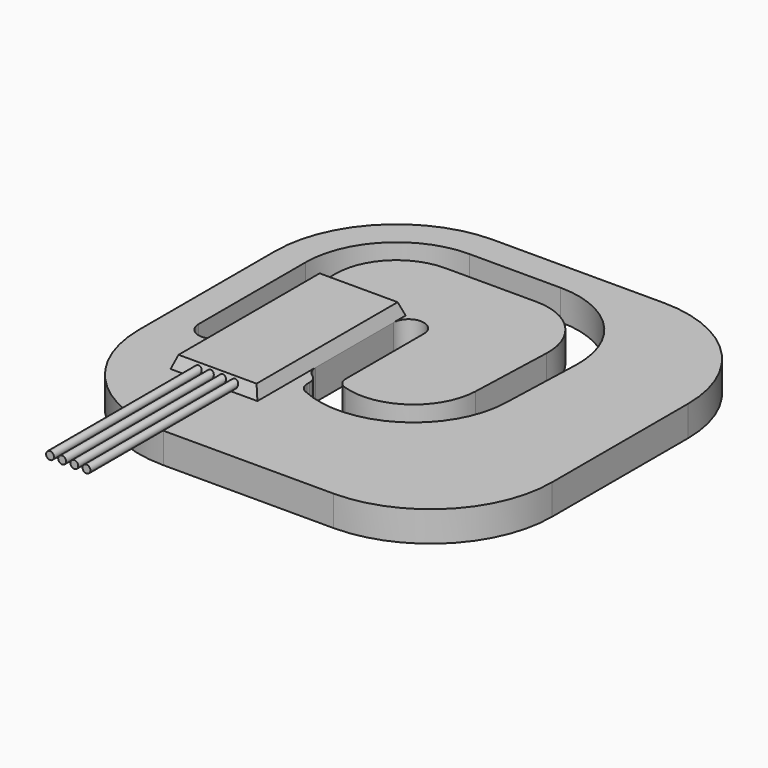
from build123d import *

# Parameters (mm, degrees)
F1_DEPTH = 2.5
F3_DEPTH = 1
F3_TAPER = 20
F4_R     = 0.325
F5_DEPTH = 25
F6_R     = 2.15
F7_DEPTH = 1.3
F7_TAPER = 45


with BuildPart() as f1:
    # F0 (on Top) → F1 (new body)
    with BuildSketch(Plane.XY):
        with BuildLine():
            Line((-7, -17), (7, -17))
            ThreePointArc((7, -17), (14.0710678119, -14.0710678119), (17, -7))
            Line((17, -7), (17, 7))
            ThreePointArc((17, 7), (14.0710678119, 14.0710678119), (7, 17))
            Line((7, 17), (-7, 17))
            ThreePointArc((-7, 17), (-14.0710678119, 14.0710678119), (-17, 7))
            Line((-17, 7), (-17, -7))
            ThreePointArc((-17, -7), (-14.0710678119, -14.0710678119), (-7, -17))
        make_face()
        with BuildLine():
            Line((-7, 14.5), (0.5045687974, 14.5))
            ThreePointArc((0.5045687974, 14.5), (5.8996172999, 12.2099377784), (8, 6.7382537747))
            Line((8, 6.7382537747), (7.7552377898, -0.2708188712))
            ThreePointArc((7.7552377898, -0.2708188712), (4.0582864832, -6.6141792278), (-3.271599819, -7.0365965254))
            ThreePointArc((-3.271599819, -7.0365965254), (-3.6930895027, -6.6675877975), (-3.85, -6.129814527))
            Line((-3.85, -6.129814527), (-3.85, -5.8708286934))
            ThreePointArc((-3.85, -5.8708286934), (-3.9680828963, -5.3994241726), (-4.2944444444, -5.0393492741))
            ThreePointArc((-4.2944444444, -5.0393492741), (-4.7023963796, -4.589255651), (-4.85, -4))
            Line((-4.85, -4), (-4.85, 4))
            ThreePointArc((-4.85, 4), (-3.6, 5.25), (-2.35, 4))
            Line((-2.35, 4), (-2.35, -4.0403961912))
            ThreePointArc((-2.35, -4.0403961912), (-2.1614505579, -4.6248172655), (-1.6669040158, -4.9888538048))
            ThreePointArc((-1.6669040158, -4.9888538048), (2.9990757899, -4.3212007232), (5.2567607222, -0.1835701295))
            Line((5.2567607222, -0.1835701295), (5.5015229325, 6.8255025165))
            ThreePointArc((5.5015229325, 6.8255025165), (4.1012677991, 10.4732918523), (0.5045687974, 12))
            Line((0.5045687974, 12), (-7, 12))
            ThreePointArc((-7, 12), (-10.5355339059, 10.5355339059), (-12, 7))
            Line((-12, 7), (-12, -4))
            ThreePointArc((-12, -4), (-13.25, -5.25), (-14.5, -4))
            Line((-14.5, -4), (-14.5, 7))
            ThreePointArc((-14.5, 7), (-12.3033008589, 12.3033008589), (-7, 14.5))
        make_face(mode=Mode.SUBTRACT)
    extrude(amount=F1_DEPTH)

    # F6 (on face) → F7 (join)
    with BuildSketch(Plane(origin=(0, 0, 0), x_dir=(1, 0, 0), z_dir=(0, 0, -1))):
        Circle(F6_R)
    extrude(amount=F7_DEPTH, taper=F7_TAPER)


with BuildPart() as f3:
    # F2 (on face) → F3 (new body)
    with BuildSketch(Plane.XY.offset(2.5)):
        Polygon((-12, 5.25), (-12, -4), (-12, -10), (-4.85, -10), (-4.85, -4), (-4.85, 4), (-4.85, 5.25), align=None)
    extrude(amount=F3_DEPTH, taper=F3_TAPER)

    # F4 (on Front) → F5 (join)
    with BuildSketch(Plane.XZ):
        with Locations((-9.925, 3)):
            Circle(F4_R)
        with Locations((-8.925, 3)):
            Circle(F4_R)
        with Locations((-7.925, 3)):
            Circle(F4_R)
        with Locations((-6.925, 3)):
            Circle(F4_R)
    extrude(amount=F5_DEPTH)


solid = Compound([f1.part, f3.part])
